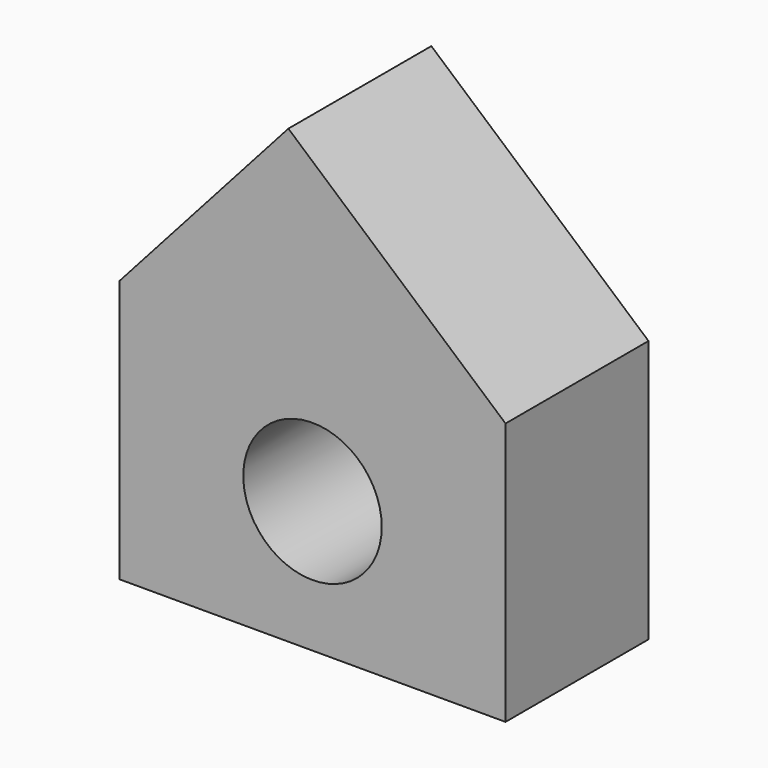
from build123d import *

# Parameters (mm, degrees)
F0_W     = 54.863999
F0_H     = 37.338002
F0_R     = 9.841681
F1_DEPTH = 25.4


with BuildPart() as f1:
    # F0 (on Front) → F1 (new body)
    with BuildSketch(Plane.XZ):
        Polygon((-60.578999, 34.290002), (-5.715, 34.290002), (-36.575999, 61.150502), align=None)
        with Locations((-33.146999, 15.621001)):
            Rectangle(F0_W, F0_H)
        with Locations((-33.147, 15.621001)):
            Circle(F0_R, mode=Mode.SUBTRACT)
    extrude(amount=F1_DEPTH)


solid = f1.part
